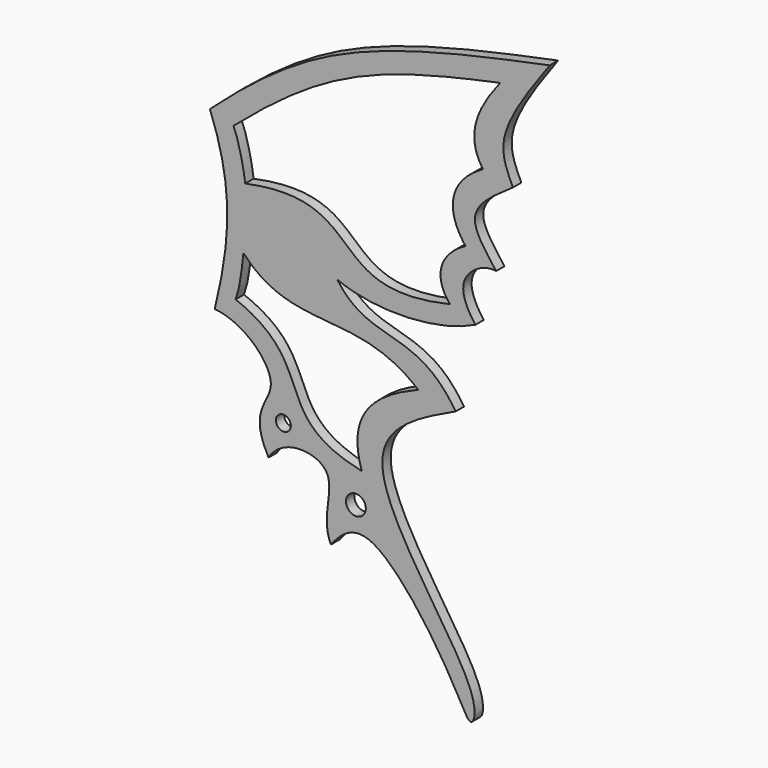
from build123d import *

# Parameters (mm, degrees)
F0_R     = 1.1938944238
F0_R_2   = 1.574687693
F1_DEPTH = 1.6666666667
F2_SCALE = 3


with BuildPart() as f1:
    # F0 (on Front) → F1 (new body)
    with BuildSketch(Plane.XZ):
        with BuildLine():
            add(Edge.make_bspline(
                [(2.7389528695, 35.2778322995), (8.3124687899, 40.2902608304), (22.1897929106, 51.7419603695), (44.503813944, 56.4186019834), (56.7408837378, 58.94606933)],
                knots=[0, 0, 0, 0, 0.4528935295, 1, 1, 1, 1], degree=3))
            add(Edge.make_bspline(
                [(3.5088227596, 7.5419899076), (5.9762282763, 17.6511984318), (6.601603236, 25.3561269492), (2.7389528695, 35.2778322995)],
                knots=[0, 0, 0, 0, 27.7465250587, 27.7465250587, 27.7465250587, 27.7465250587], degree=3))
            add(Edge.make_bspline(
                [(12.0637975633, -10.4577895254), (8.6922084312, -4.4105133752), (16.4467783949, -1.0655293708), (8.0877125408, 7.1730557597), (3.5088227596, 7.5419899076)],
                knots=[0, 0, 0, 0, 0.4862917469, 1, 1, 1, 1], degree=3))
            add(Edge.make_bspline(
                [(21.9799093902, -19.3973444402), (20.194033703, -15.7962620755), (25.2241702541, -7.5255640825), (14.2142388933, -6.7656304521), (12.0637975633, -10.4577895254)],
                knots=[0, 0, 0, 0, 0.5129678421, 1, 1, 1, 1], degree=3))
            add(Edge.make_bspline(
                [(41.785530746, 5.6648580357), (35.6501506637, 2.8130760865), (22.0681029147, -3.8472502711), (46.1828450525, -30.955274764), (44.353410134, -38.6380149289), (41.404190055, -31.7677797565), (30.2740675882, -15.3784156403), (24.5574029485, -16.0173629454), (21.9799093902, -19.3973444402)],
                knots=[0, 0, 0, 0, 0.1914464139, 0.4555460868, 0.5516708491, 0.6579036174, 0.8684764096, 1, 1, 1, 1], degree=3))
            add(Edge.make_bspline(
                [(22.9553505778, 18.0180352181), (28.2796211541, 10.5307828635), (35.5338528752, 15.4471010901), (41.785530746, 5.6648580357)],
                knots=[0, 0, 0, 0, 22.5205832887, 22.5205832887, 22.5205832887, 22.5205832887], degree=3))
            add(Edge.make_bspline(
                [(44.9308156967, 18.8131798059), (38.3224897087, 15.5725553632), (28.5283853844, 15.6533586681), (22.9553505778, 18.0180352181)],
                knots=[0, 0, 0, 0, 21.9898458864, 21.9898458864, 21.9898458864, 21.9898458864], degree=3))
            add(Edge.make_bspline(
                [(48.2158698142, 27.3908153176), (46.2330393493, 27.7350414544), (41.3641753197, 24.6962576421), (43.7236241996, 20.3892998397), (44.9308156967, 18.8131798059)],
                knots=[0, 0, 0, 0, 0.501085811, 1, 1, 1, 1], degree=3))
            add(Edge.make_bspline(
                [(50.9007945657, 39.9657636881), (48.1462378632, 38.0769925547), (42.4158028616, 34.3758430292), (46.6326697721, 29.5701230423), (48.2158698142, 27.3908153176)],
                knots=[0, 0, 0, 0, 0.5183568565, 1, 1, 1, 1], degree=3))
            add(Edge.make_bspline(
                [(56.7408837378, 58.94606933), (53.3390187043, 54.2594043997), (47.7412355117, 46.5474775837), (50.0105714498, 41.8201977252), (50.9007945657, 39.9657636881)],
                knots=[0, 0, 0, 0, 0.6077164685, 1, 1, 1, 1], degree=3))
        make_face()
        with Locations((14.4140450284, -4.861346446)):
            Circle(F0_R, mode=Mode.SUBTRACT)
        with Locations((25.9402245283, -12.5598711893)):
            Circle(F0_R_2, mode=Mode.SUBTRACT)
        with BuildLine():
            add(Edge.make_bspline(
                [(6.8302643485, 9.9757947028), (7.7005582862, 12.3802544549), (7.7743970113, 14.6224805994), (8.0670651304, 16.8621456159)],
                knots=[0, 0, 0, 0, 6.9965352192, 6.9965352192, 6.9965352192, 6.9965352192], degree=3))
            add(Edge.make_bspline(
                [(8.0670651304, 16.8621456159), (16.0220723854, 8.2301162092), (26.0497292167, 14.9905605221), (35.8454168098, 6.7603434345)],
                knots=[0, 0, 0, 0, 29.558133049, 29.558133049, 29.558133049, 29.558133049], degree=3))
            add(Edge.make_bspline(
                [(35.8454168098, 6.7603434345), (30.7710144924, 4.6775676219), (23.971354206, 1.2720723328), (26.8854755805, -7.5302353204)],
                knots=[0, 0, 0, 0, 16.8671630093, 16.8671630093, 16.8671630093, 16.8671630093], degree=3))
            add(Edge.make_bspline(
                [(26.8854755805, -7.5302353204), (11.8665704504, -4.2852684855), (20.3476864845, 4.7038346529), (6.8302643485, 9.9757947028)],
                knots=[0, 0, 0, 0, 26.6209050322, 26.6209050322, 26.6209050322, 26.6209050322], degree=3))
        make_face(mode=Mode.SUBTRACT)
        with BuildLine():
            add(Edge.make_bspline(
                [(6.4933202229, 34.1482646763), (7.349292282, 32.3005840182), (8.0953123979, 28.7808291614), (8.3566550165, 26.6848411411)],
                knots=[0, 0, 0, 0, 7.6925098257, 7.6925098257, 7.6925098257, 7.6925098257], degree=3))
            add(Edge.make_bspline(
                [(6.4933202229, 34.1482646763), (21.2050708942, 46.8857102096), (29.2524304241, 49.7922115028), (48.8681010902, 53.9318807423)],
                knots=[0, 0, 0, 0, 46.7655163362, 46.7655163362, 46.7655163362, 46.7655163362], degree=3))
            add(Edge.make_bspline(
                [(48.8681010902, 53.9318807423), (44.7921156883, 48.8369017839), (43.466694653, 44.7383448482), (46.1415573955, 40.9808009863)],
                knots=[0, 0, 0, 0, 13.2349728888, 13.2349728888, 13.2349728888, 13.2349728888], degree=3))
            add(Edge.make_bspline(
                [(46.1415573955, 40.9808009863), (41.06034711, 38.114875555), (39.8286016248, 33.9008253132), (43.3494740688, 29.3153431331)],
                knots=[0, 0, 0, 0, 11.9949421102, 11.9949421102, 11.9949421102, 11.9949421102], degree=3))
            add(Edge.make_bspline(
                [(43.3494740688, 29.3153431331), (39.4569449127, 27.2426549345), (38.032737934, 23.7299603356), (40.8965287739, 20.3801588101)],
                knots=[0, 0, 0, 0, 9.2657681552, 9.2657681552, 9.2657681552, 9.2657681552], degree=3))
            add(Edge.make_bspline(
                [(40.8965287739, 20.3801588101), (20.4096529633, 15.5949192122), (28.4197218716, 30.8154523373), (8.3566550165, 26.6848411411)],
                knots=[0, 0, 0, 0, 33.145020794, 33.145020794, 33.145020794, 33.145020794], degree=3))
        make_face(mode=Mode.SUBTRACT)
    extrude(amount=F1_DEPTH)


with BuildPart() as f1_1:
    # F2: moved
    add(f1.part.scale(F2_SCALE))


solid = f1_1.part
